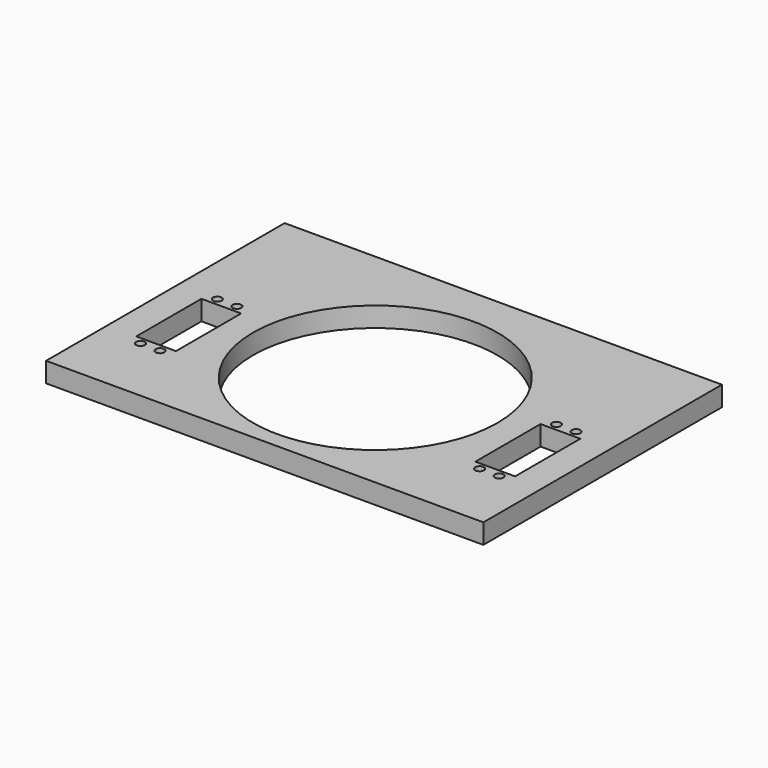
from build123d import *

# Parameters (mm, degrees)
F0_W     = 220
F0_H     = 150
F0_R     = 61.5
F2_DEPTH = 10
F1_W     = 20
F1_H     = 41
F1_R     = 2.19
F3_DEPTH = 10


with BuildPart() as f2:
    # F0 (on Top) → F2 (new body)
    with BuildSketch(Plane.XY):
        Rectangle(F0_W, F0_H)
        with Locations((0, -5.5)):
            Circle(F0_R, mode=Mode.SUBTRACT)
    extrude(amount=-F2_DEPTH)

    # F1 (on Top) → F3 (cut, through all)
    with BuildSketch(Plane.XY):
        with Locations((-85.3, -16.18)):
            Rectangle(F1_W, F1_H)
        with Locations((-80.375, 7.97)):
            Circle(F1_R)
        with Locations((-90.225, 7.97)):
            Circle(F1_R)
        with Locations((-80.375, -40.33)):
            Circle(F1_R)
        with Locations((-90.225, -40.33)):
            Circle(F1_R)
        with Locations((85.3, -16.18)):
            Rectangle(F1_W, F1_H)
        with Locations((80.375, 7.97)):
            Circle(F1_R)
        with Locations((90.225, 7.97)):
            Circle(F1_R)
        with Locations((80.375, -40.33)):
            Circle(F1_R)
        with Locations((90.225, -40.33)):
            Circle(F1_R)
    extrude(amount=-F3_DEPTH, mode=Mode.SUBTRACT)


solid = f2.part
